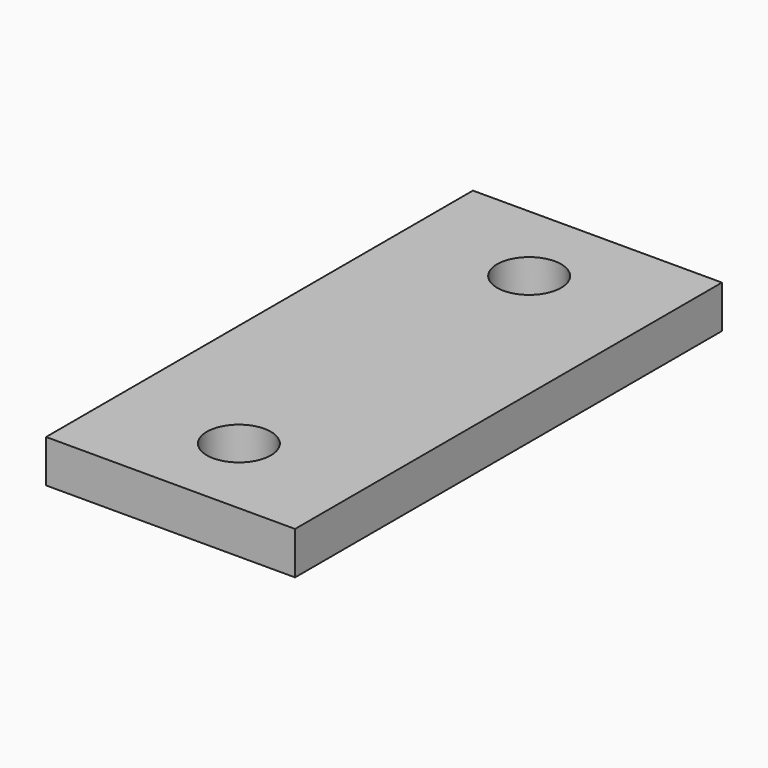
from build123d import *

# Parameters (mm, degrees)
F0_W     = 70
F0_H     = 150
F1_DEPTH = 12
F2_R     = 9
F3_DEPTH = 25


with BuildPart() as f1:
    # F0 (on Top) → F1 (new body)
    with BuildSketch(Plane.XY):
        Rectangle(F0_W, F0_H)
    extrude(amount=F1_DEPTH)

    # F2 (on face) → F3 (cut)
    with BuildSketch(Plane(origin=(0, 0, 0), x_dir=(1, 0, 0), z_dir=(0, 0, -1))):
        with Locations((0, 51)):
            Circle(F2_R)
        with Locations((0, -51)):
            Circle(F2_R)
    extrude(amount=-F3_DEPTH, mode=Mode.SUBTRACT)


solid = f1.part
